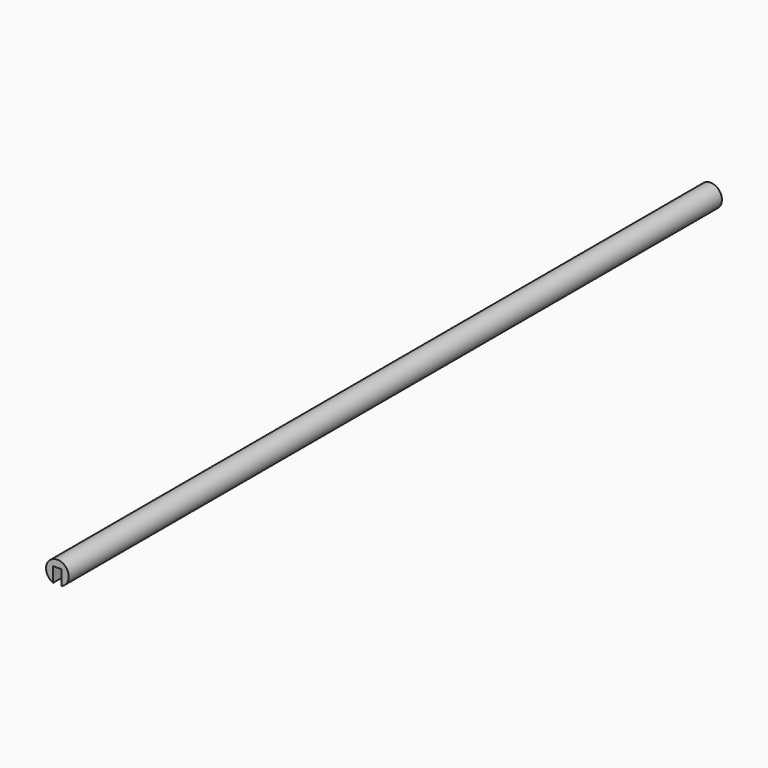
from build123d import *

# Parameters (mm, degrees)
F0_R     = 12.7
F1_DEPTH = 914.4
F3_DEPTH = 25.4
F6_DEPTH = 17.4625


with BuildPart() as f1:
    # F0 (on Front) → F1 (new body)
    with BuildSketch(Plane.XZ):
        Circle(F0_R)
    extrude(amount=-F1_DEPTH)

    # F2 (on face) → F3 (cut)
    with BuildSketch(Plane.XZ):
        with BuildLine():
            Line((4.7625, 4.7625), (-4.7625, 4.7625))
            Line((-4.7625, 4.7625), (-4.7625, -11.773215))
            ThreePointArc((-4.7625, -11.773215), (0, -12.7), (4.7625, -11.773215))
            Line((4.7625, -11.773215), (4.7625, 4.7625))
        make_face()
    extrude(amount=-F3_DEPTH, mode=Mode.SUBTRACT)

    # F5 (on offset) → F6 (cut, through all)
    with BuildSketch(Plane.XY.offset(-12.7)):
        with BuildLine():
            ThreePointArc((4.7625, 25.4), (0, 30.1625), (-4.7625, 25.4))
            Line((-4.7625, 25.4), (4.7625, 25.4))
        make_face()
    extrude(amount=F6_DEPTH, mode=Mode.SUBTRACT)


solid = f1.part
